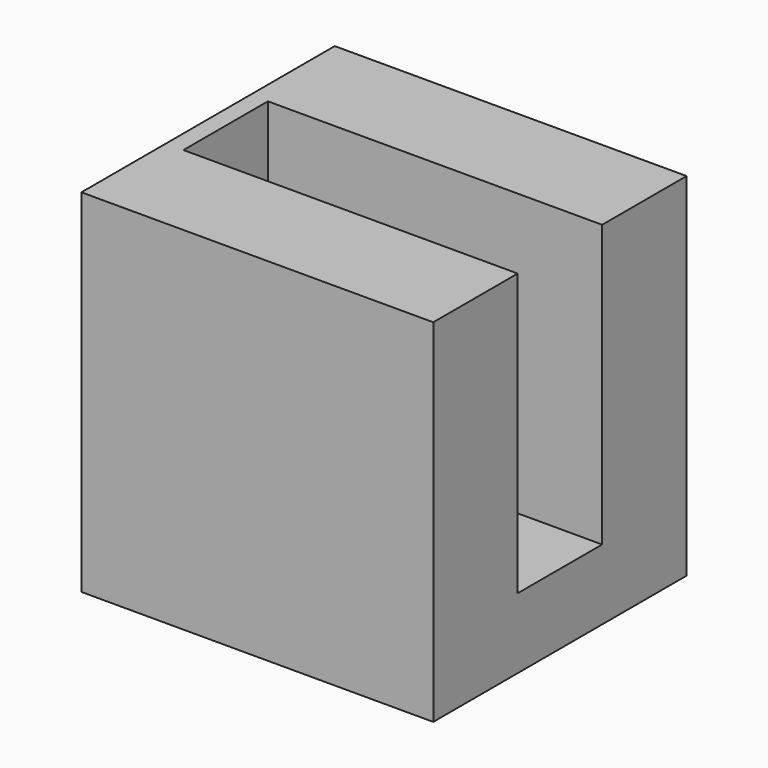
from build123d import *

# Parameters (mm, degrees)
BOX010_W     = 10
BOX010_H     = 3
BOX010_DEPTH = 10
BOX011_W     = 10
BOX011_H     = 3
BOX011_DEPTH = 10
BOX012_W     = 10
BOX012_H     = 9
BOX012_DEPTH = 2
BOX013_W     = 0.5
BOX013_H     = 9
BOX013_DEPTH = 10


with BuildPart() as cube008:
    # Box010 → Box010 (new body)
    with BuildSketch(Plane.XY):
        with Locations((5, 1.5)):
            Rectangle(BOX010_W, BOX010_H)
    extrude(amount=BOX010_DEPTH)


with BuildPart() as cube009:
    # Box011 → Box011 (new body)
    with BuildSketch(Plane(origin=(0, -6, 0), x_dir=(1, 0, 0), z_dir=(0, 0, 1))):
        with Locations((5, 1.5)):
            Rectangle(BOX011_W, BOX011_H)
    extrude(amount=BOX011_DEPTH)


with BuildPart() as cube010:
    # Box012 → Box012 (new body)
    with BuildSketch(Plane(origin=(0, -6, 0), x_dir=(1, 0, 0), z_dir=(0, 0, 1))):
        with Locations((5, 4.5)):
            Rectangle(BOX012_W, BOX012_H)
    extrude(amount=BOX012_DEPTH)


with BuildPart() as fusion002:
    # Box013 → Box013 (new body)
    with BuildSketch(Plane(origin=(0, -6, 0), x_dir=(1, 0, 0), z_dir=(0, 0, 1))):
        with Locations((0.25, 4.5)):
            Rectangle(BOX013_W, BOX013_H)
    extrude(amount=BOX013_DEPTH)

    # Fusion002: union Cube008, Cube009, Cube010
    add(cube008.part)
    add(cube009.part)
    add(cube010.part)


solid = fusion002.part
